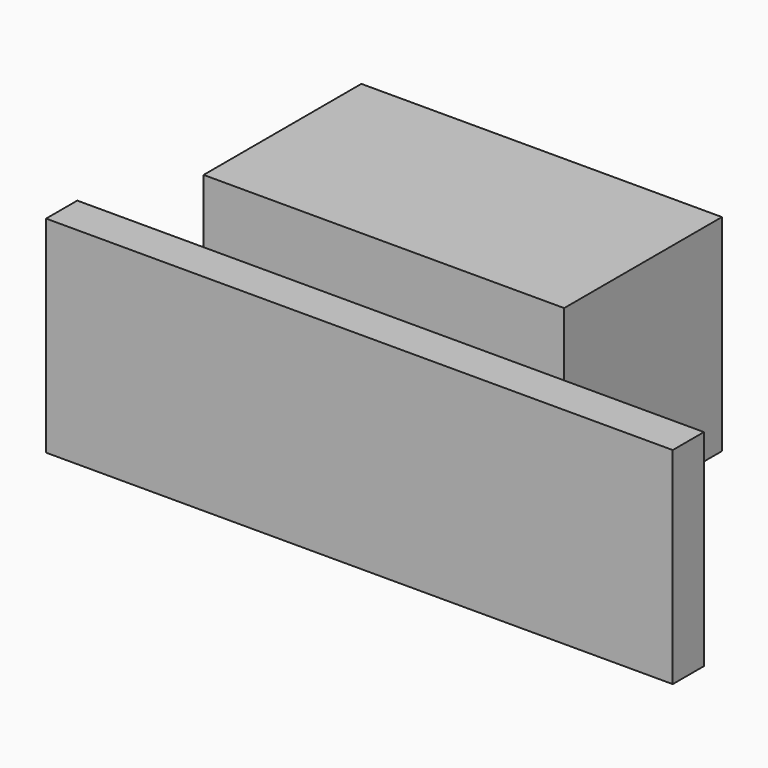
from build123d import *

# Parameters (mm, degrees)
F0_W     = 44.442359
F0_H     = 24.302347
F0_W_2   = 77.236741
F0_H_2   = 4.806377
F1_DEPTH = 25.4


with BuildPart() as f1:
    # F0 (on Top) → F1 (new body)
    with BuildSketch(Plane.XY):
        with Locations((-38.519765, -12.151173)):
            Rectangle(F0_W, F0_H)
        with Locations((-28.272308, -38.479942)):
            Rectangle(F0_W_2, F0_H_2)
    extrude(amount=F1_DEPTH)


solid = f1.part
